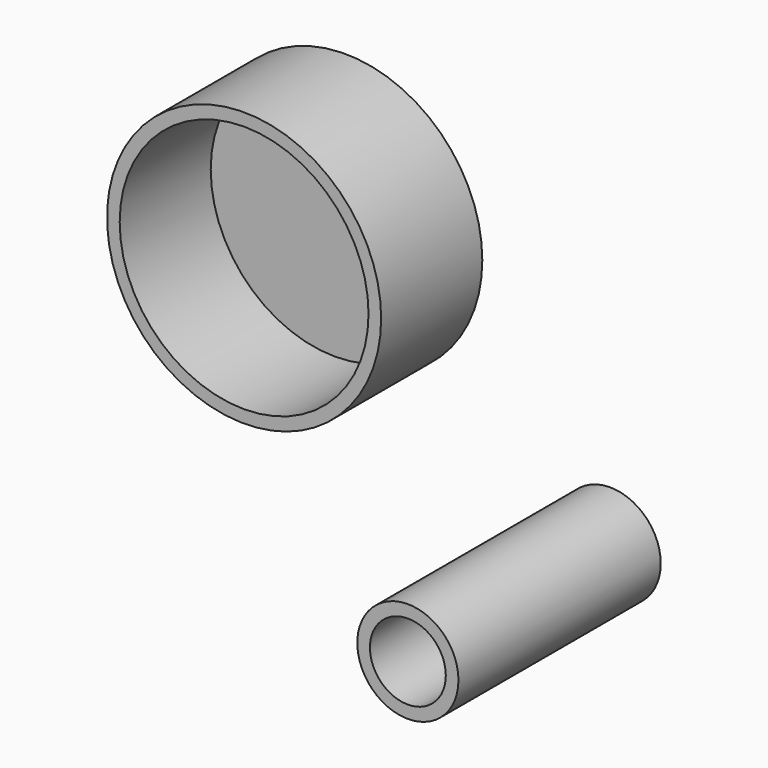
from build123d import *

# Parameters (mm, degrees)
F5_R     = 10
F0_DEPTH = 50
F1_R     = 27.100928
F2_DEPTH = 25
F3_T     = -2.5
F4_T     = -2.5


with BuildPart() as f0:
    # F5 (on Front) → F0 (new body)
    with BuildSketch(Plane.XZ):
        Circle(F5_R)
    extrude(amount=F0_DEPTH)

    # F3
    f3_openings = [f0.faces().sort_by_distance(p)[0] for p in [
        (0, -50, 0),
    ]]
    offset(amount=F3_T, openings=f3_openings)


with BuildPart() as f2:
    # F1 (on Front) → F2 (new body)
    with BuildSketch(Plane.XZ):
        with Locations((-52.379899, 41.318815)):
            Circle(F1_R)
    extrude(amount=F2_DEPTH)

    # F4
    f4_openings = [f2.faces().sort_by_distance(p)[0] for p in [
        (-52.379899, -25, 41.318815),
    ]]
    offset(amount=F4_T, openings=f4_openings)


solid = Compound([f0.part, f2.part])
